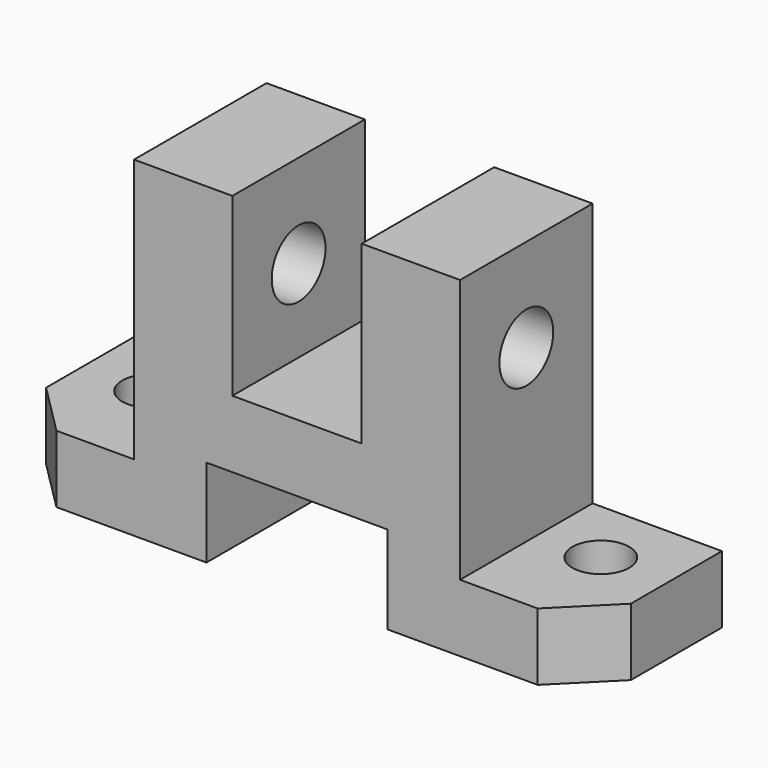
from build123d import *

# Parameters (mm, degrees)
F1_DEPTH = 16
F2_R     = 6.5
F3_DEPTH = 36.5
F4_R     = 5.5
F5_DEPTH = 13
F6_SIZE  = 10


with BuildPart() as f1:
    # F0 (on Front) → F1 (new body, symmetric)
    with BuildSketch(Plane.XZ):
        Polygon((-56.5, 13), (-56.5, 0), (-17.5, 0), (-17.5, 17), (17.5, 17), (17.5, 0), (56.5, 0), (56.5, 13), (31.5, 13), (31.5, 64), (12.5, 64), (12.5, 30), (-12.5, 30), (-12.5, 64), (-31.5, 64), (-31.5, 13), align=None)
    extrude(amount=F1_DEPTH, both=True)

    # F2 (on Right) → F3 (cut, symmetric)
    with BuildSketch(Plane.YZ):
        with Locations((0, 46)):
            Circle(F2_R)
    extrude(amount=F3_DEPTH, both=True, mode=Mode.SUBTRACT)

    # F4 (on Top) → F5 (cut)
    with BuildSketch(Plane.XY):
        with Locations((-43.5, 3)):
            Circle(F4_R)
        with Locations((43.5, 3)):
            Circle(F4_R)
    extrude(amount=F5_DEPTH, mode=Mode.SUBTRACT)

    # F6
    f6_edges = [f1.edges().sort_by_distance(p)[0] for p in [
        (56.5, -16, 6.5),
        (-56.5, -16, 6.5),
    ]]
    chamfer(f6_edges, length=F6_SIZE)


solid = f1.part
